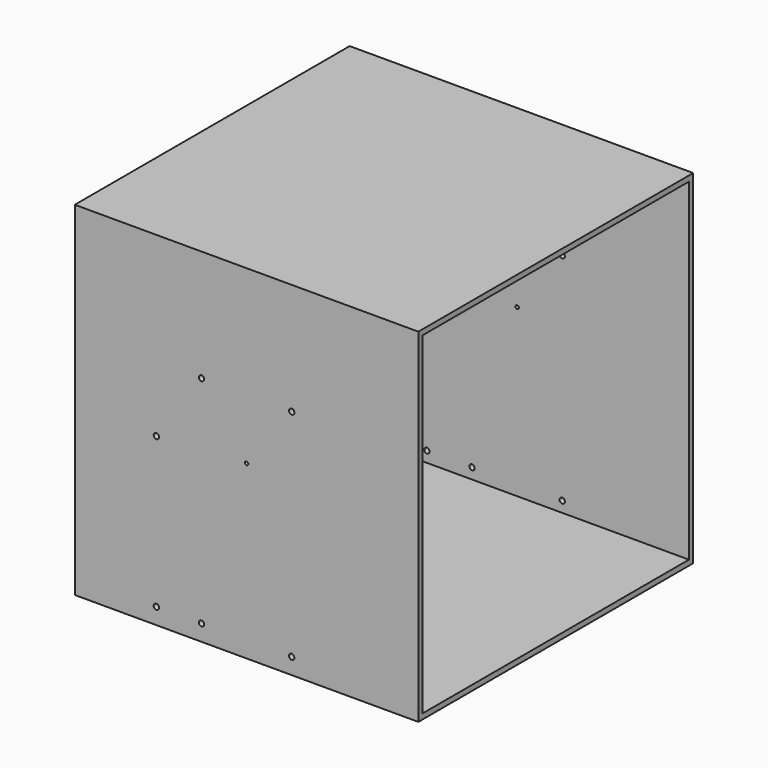
from build123d import *

# Parameters (mm, degrees)
F0_W     = 406.4
F0_H     = 406.4
F0_W_2   = 393.7
F0_H_2   = 393.7
F1_DEPTH = 406.4
F2_W     = 406.4
F2_H     = 406.4
F2_R     = 3.175
F2_R_2   = 2.032
F3_DEPTH = 406.4


with BuildPart() as f1:
    # F0 (on Right) → F1 (new body)
    with BuildSketch(Plane.YZ):
        Rectangle(F0_W, F0_H)
        Rectangle(F0_W_2, F0_H_2, mode=Mode.SUBTRACT)
        Rectangle(F0_W, F0_H)
        Rectangle(F0_W_2, F0_H_2, mode=Mode.SUBTRACT)
    extrude(amount=F1_DEPTH)

    # F2 (on face) → F3 (intersect)
    with BuildSketch(Plane.XZ.offset(203.2)):
        with Locations((203.2, 0)):
            Rectangle(F2_W, F2_H)
        with Locations((96.52, -184.072345)):
            Circle(F2_R, mode=Mode.SUBTRACT)
        with Locations((149.86, -184.072345)):
            Circle(F2_R, mode=Mode.SUBTRACT)
        with Locations((96.52, -6.35)):
            Circle(F2_R, mode=Mode.SUBTRACT)
        with Locations((256.54, -184.072345)):
            Circle(F2_R, mode=Mode.SUBTRACT)
        with Locations((203.2, 0)):
            Circle(F2_R_2, mode=Mode.SUBTRACT)
        with Locations((149.86, 71.191654)):
            Circle(F2_R, mode=Mode.SUBTRACT)
        with Locations((256.54, 71.191654)):
            Circle(F2_R, mode=Mode.SUBTRACT)
    extrude(amount=-F3_DEPTH, mode=Mode.INTERSECT)


solid = f1.part
